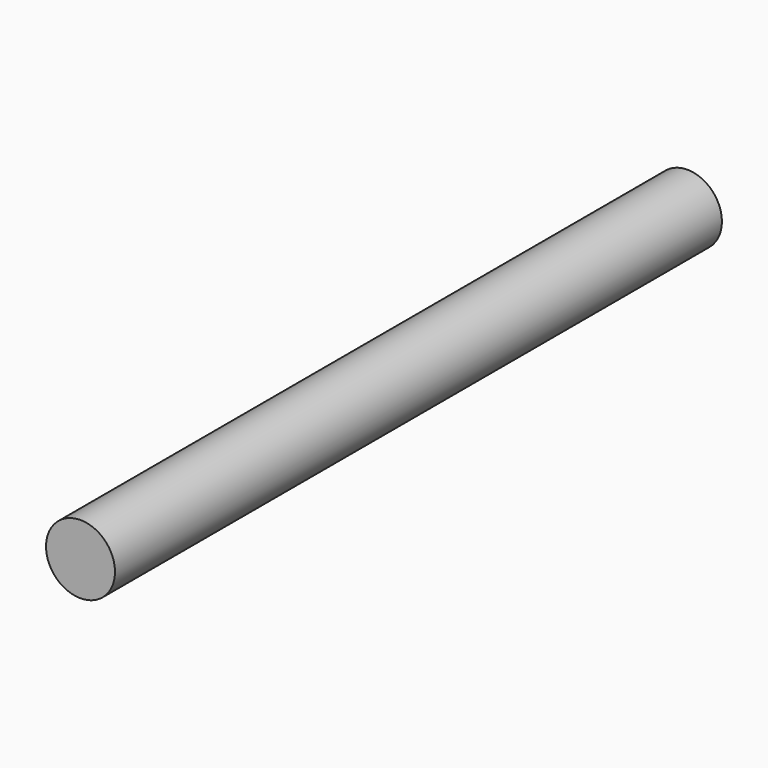
from build123d import *

# Parameters (mm, degrees)
F0_R     = 5
F1_DEPTH = 10
F2_DEPTH = 100


with BuildPart() as f1:
    # F0 (on Front) → F1 (new body)
    with BuildSketch(Plane.XZ):
        Circle(F0_R)
    extrude(amount=F1_DEPTH)

    # F2 (add): a face of the model
    f2_faces = [f1.faces().sort_by_distance(p)[0] for p in [
        (0, 0, 0),
    ]]
    extrude(f2_faces, amount=F2_DEPTH)


solid = f1.part
